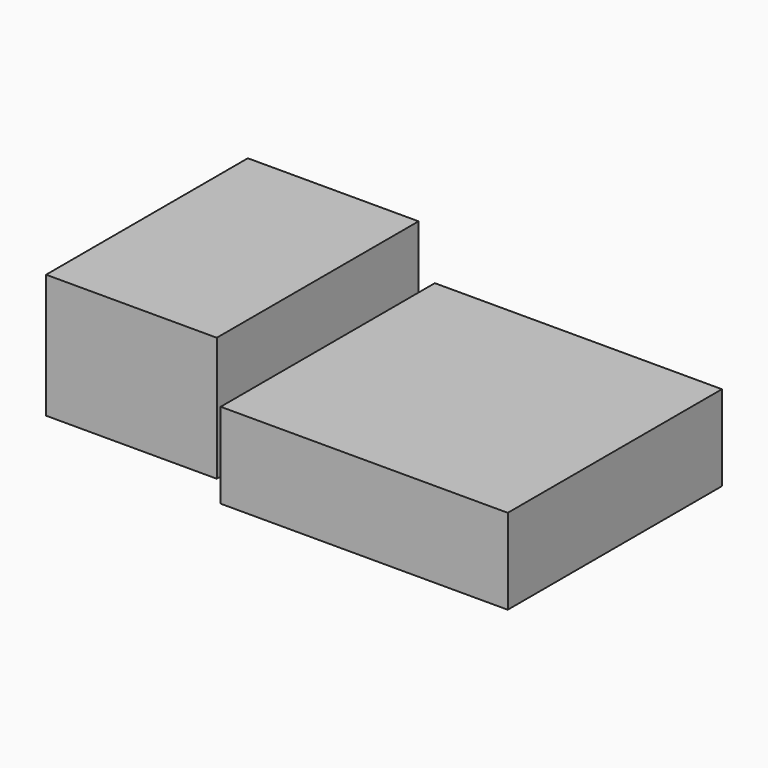
from build123d import *

# Parameters (mm, degrees)
BOX002_W                  = 74
BOX002_H                  = 69
BOX002_DEPTH              = 22
BOX003_W                  = 44
BOX003_H                  = 65
BOX003_DEPTH              = 32
FUSION006_PLACEMENT_ANGLE = 180


with BuildPart() as cubo002:
    # Box002 → Box002 (new body)
    with BuildSketch(Plane(origin=(-8, -32, -20), x_dir=(1, 0, 0), z_dir=(0, 0, 1))):
        with Locations((37, 34.5)):
            Rectangle(BOX002_W, BOX002_H)
    extrude(amount=BOX002_DEPTH)


with BuildPart() as fusion006:
    # Box003 → Box003 (new body)
    with BuildSketch(Plane(origin=(71, -27, -32), x_dir=(1, 0, 0), z_dir=(0, 0, 1))):
        with Locations((22, 32.5)):
            Rectangle(BOX003_W, BOX003_H)
    extrude(amount=BOX003_DEPTH)

    # Fusion006: union Cubo002
    add(cubo002.part)


with BuildPart() as fusion006_1:
    # Fusion006 placement: moved
    add(fusion006.part.moved(Location((109, 0, 30))).rotate(Axis((109, 0, 30), (0, 1, 0)), FUSION006_PLACEMENT_ANGLE))


solid = fusion006_1.part
